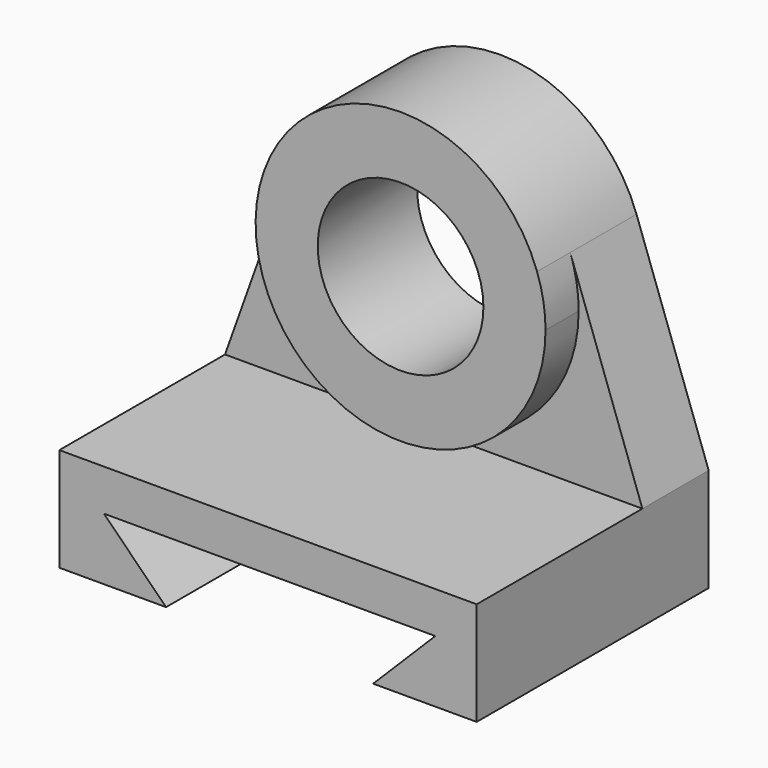
from build123d import *

# Parameters (mm, degrees)
F1_DEPTH = 127
F0_R     = 50.8
F2_DEPTH = 50.8
F3_DEPTH = 25.4


with BuildPart() as f1:
    # F0 (on Front) → F1 (new body)
    with BuildSketch(Plane.XZ):
        Polygon((255.951391, 57.862211), (255.951391, 121.362211), (0, 121.362211), (0, 57.862211), (65.451391, 57.862211), (27.351391, 95.962211), (230.551391, 95.962211), (192.451391, 57.862211), align=None)
    extrude(amount=F1_DEPTH)

    # F0 (on Front) → F2 (join)
    with BuildSketch(Plane.XZ):
        Polygon((255.951391, 57.862211), (255.951391, 121.362211), (0, 121.362211), (0, 57.862211), (65.451391, 57.862211), (27.351391, 95.962211), (230.551391, 95.962211), (192.451391, 57.862211), align=None)
        with BuildLine():
            ThreePointArc((216.875695, 215.35869), (215.571015, 230.533337), (211.69527, 245.262584))
            ThreePointArc((211.69527, 245.262584), (127.975695, 304.25869), (44.256121, 245.262584))
            ThreePointArc((44.256121, 245.262584), (112.801048, 127.76337), (216.875695, 215.35869))
        make_face()
        with Locations((127.975695, 215.35869)):
            Circle(F0_R, mode=Mode.SUBTRACT)
        with BuildLine():
            Line((0, 121.362211), (255.951391, 121.362211))
            Line((255.951391, 121.362211), (211.69527, 245.262584))
            ThreePointArc((211.69527, 245.262584), (215.571015, 230.533337), (216.875695, 215.35869))
            ThreePointArc((216.875695, 215.35869), (112.801048, 127.76337), (44.256121, 245.262584))
            Line((44.256121, 245.262584), (0, 121.362211))
        make_face()
    extrude(amount=-F2_DEPTH)

    # F0 (on Front) → F3 (join)
    with BuildSketch(Plane.XZ):
        with BuildLine():
            ThreePointArc((216.875695, 215.35869), (215.571015, 230.533337), (211.69527, 245.262584))
            ThreePointArc((211.69527, 245.262584), (127.975695, 304.25869), (44.256121, 245.262584))
            ThreePointArc((44.256121, 245.262584), (112.801048, 127.76337), (216.875695, 215.35869))
        make_face()
        with Locations((127.975695, 215.35869)):
            Circle(F0_R, mode=Mode.SUBTRACT)
    extrude(amount=F3_DEPTH)


solid = f1.part
